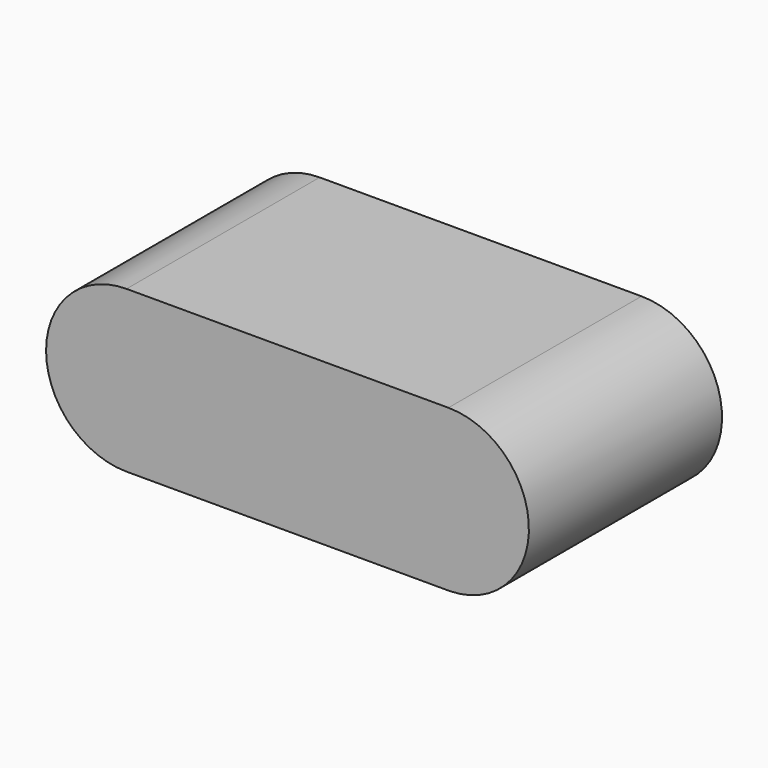
from build123d import *

# Parameters (mm, degrees)
F1_DEPTH = 76.2
F2_R     = 12.7
F3_DEPTH = 50.8


with BuildPart() as f1:
    # F0 (on Front) → F1 (new body)
    with BuildSketch(Plane.XZ):
        with BuildLine():
            Line((50.341128, 25.548994), (-51.258872, 25.548994))
            ThreePointArc((-51.258872, 25.548994), (-76.658872, 0.148994), (-51.258872, -25.251006))
            Line((-51.258872, -25.251006), (50.938825, -25.251006))
            ThreePointArc((50.938825, -25.251006), (75.742886, 0.444347), (50.341128, 25.548994))
        make_face()
    extrude(amount=F1_DEPTH)

    # F2 (on Front) → F3 (cut)
    with BuildSketch(Plane.XZ):
        with Locations((50.8, 0)):
            Circle(F2_R)
        with Locations((-50.8, 0)):
            Circle(F2_R)
    extrude(amount=F3_DEPTH, mode=Mode.SUBTRACT)


solid = f1.part
